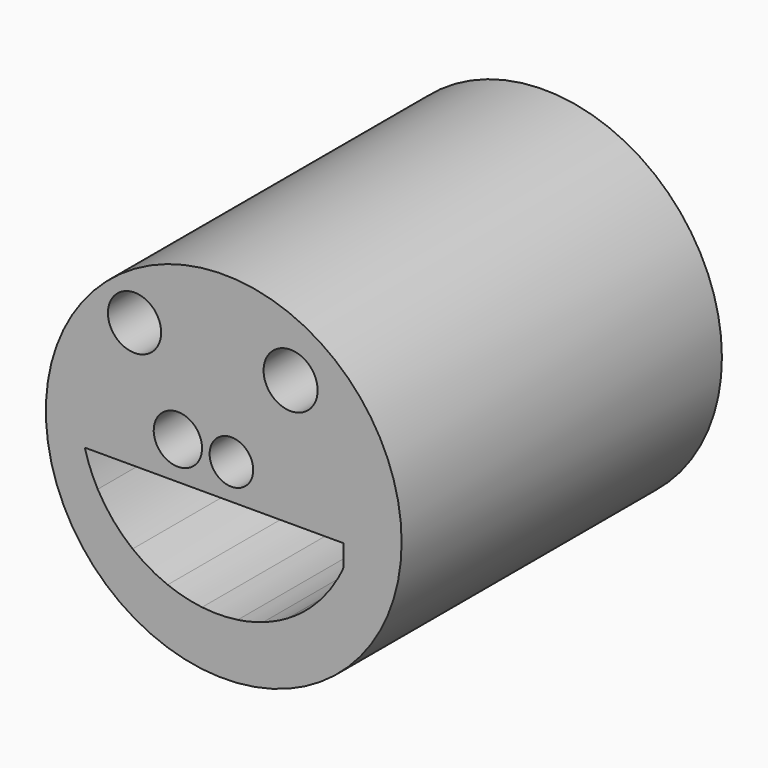
from build123d import *

# Parameters (mm, degrees)
F0_R     = 66.641501
F0_R_2   = 9.968602
F0_R_3   = 8.169594
F0_R_4   = 10.130103
F1_DEPTH = 150


with BuildPart() as f1:
    # F0 (on Front) → F1 (new body)
    with BuildSketch(Plane.XZ):
        Circle(F0_R)
        with BuildLine():
            ThreePointArc((-47.21239, -19.541254), (-50.009162, -13.621133), (-52.03151, -7.393784))
            Line((-52.03151, -7.393784), (-34.136722, -7.393784))
            Line((-34.136722, -7.393784), (-21.011824, -7.393784))
            Line((-21.011824, -7.393784), (-8.125476, -7.393784))
            Line((-8.125476, -7.393784), (5.238163, -7.393784))
            Line((5.238163, -7.393784), (14.783629, -7.393784))
            Line((14.783629, -7.393784), (23.911529, -7.393784))
            Line((23.911529, -7.393784), (32.681515, -7.393784))
            Line((32.681515, -7.393784), (44.854218, -7.393784))
            Line((44.854218, -7.393784), (44.854218, -15.515085))
            ThreePointArc((44.854218, -15.515085), (43.897568, -17.550039), (42.852925, -19.541254))
            ThreePointArc((42.852925, -19.541254), (38.288746, -26.426826), (32.681515, -32.493274))
            ThreePointArc((32.681515, -32.493274), (28.469498, -35.978188), (23.911529, -38.996572))
            ThreePointArc((23.911529, -38.996572), (19.451177, -41.334676), (14.783629, -43.225568))
            ThreePointArc((14.783629, -43.225568), (10.066868, -44.623512), (5.238163, -45.564626))
            ThreePointArc((5.238163, -45.564626), (-1.43737, -46.096762), (-8.125476, -45.757446))
            ThreePointArc((-8.125476, -45.757446), (-14.673168, -44.56238), (-21.011824, -42.532135))
            ThreePointArc((-21.011824, -42.532135), (-27.853806, -39.239377), (-34.136722, -34.975583))
            ThreePointArc((-34.136722, -34.975583), (-41.440477, -27.907292), (-47.21239, -19.541254))
        make_face(mode=Mode.SUBTRACT)
        with BuildLine():
            ThreePointArc((-11.232171, 13.509632), (-8.938658, 10.432505), (-8.125476, 6.681819))
            ThreePointArc((-8.125476, 6.681819), (-25.42498, 2.931132), (-11.232171, 13.509632))
        make_face(mode=Mode.SUBTRACT)
        with Locations((-33.41883, 39.852273)):
            Circle(F0_R_2, mode=Mode.SUBTRACT)
        with Locations((2.872223, 5.739587)):
            Circle(F0_R_3, mode=Mode.SUBTRACT)
        with Locations((25.047079, 39.852273)):
            Circle(F0_R_4, mode=Mode.SUBTRACT)
    extrude(amount=F1_DEPTH)


solid = f1.part
